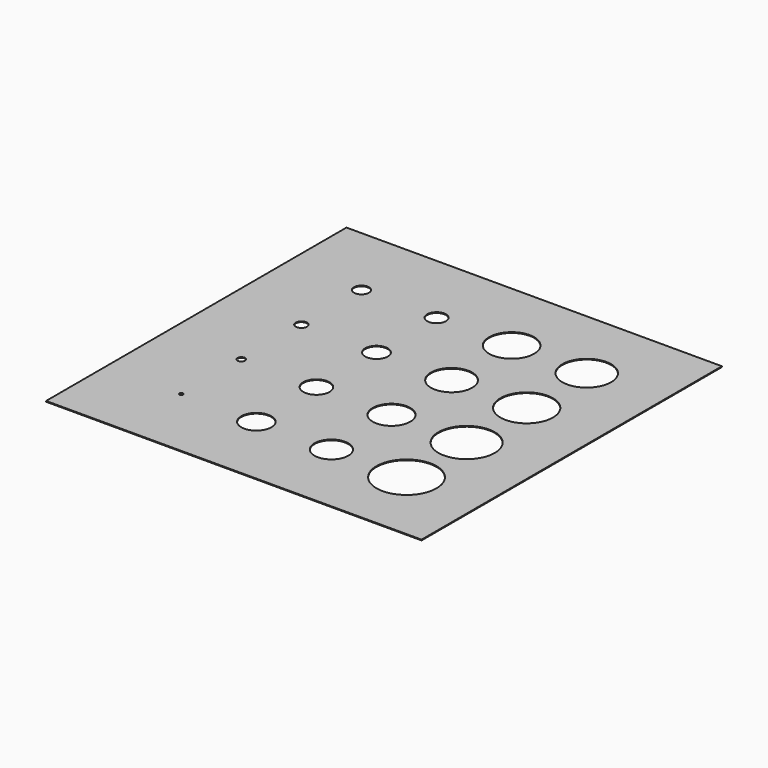
from build123d import *

# Parameters (mm, degrees)
F0_W     = 100
F0_H     = 100
F0_R     = 0.5
F0_R_2   = 4
F0_R_3   = 1
F0_R_4   = 3.5
F0_R_5   = 4.5
F0_R_6   = 8
F0_R_7   = 5
F0_R_8   = 7.5
F0_R_9   = 1.5
F0_R_10  = 3
F0_R_11  = 2
F0_R_12  = 2.5
F0_R_13  = 5.5
F0_R_14  = 7
F0_R_15  = 6
F0_R_16  = 6.5
F1_DEPTH = 0.2


with BuildPart() as f1:
    # F0 (on Top) → F1 (new body)
    with BuildSketch(Plane.XY):
        with Locations((50, 50)):
            Rectangle(F0_W, F0_H)
        with Locations((20, 20)):
            Circle(F0_R, mode=Mode.SUBTRACT)
        with Locations((40, 20)):
            Circle(F0_R_2, mode=Mode.SUBTRACT)
        with Locations((20, 40)):
            Circle(F0_R_3, mode=Mode.SUBTRACT)
        with Locations((40, 40)):
            Circle(F0_R_4, mode=Mode.SUBTRACT)
        with Locations((60, 20)):
            Circle(F0_R_5, mode=Mode.SUBTRACT)
        with Locations((80, 20)):
            Circle(F0_R_6, mode=Mode.SUBTRACT)
        with Locations((60, 40)):
            Circle(F0_R_7, mode=Mode.SUBTRACT)
        with Locations((80, 40)):
            Circle(F0_R_8, mode=Mode.SUBTRACT)
        with Locations((20, 60)):
            Circle(F0_R_9, mode=Mode.SUBTRACT)
        with Locations((40, 60)):
            Circle(F0_R_10, mode=Mode.SUBTRACT)
        with Locations((20, 80)):
            Circle(F0_R_11, mode=Mode.SUBTRACT)
        with Locations((40, 80)):
            Circle(F0_R_12, mode=Mode.SUBTRACT)
        with Locations((60, 60)):
            Circle(F0_R_13, mode=Mode.SUBTRACT)
        with Locations((80, 60)):
            Circle(F0_R_14, mode=Mode.SUBTRACT)
        with Locations((60, 80)):
            Circle(F0_R_15, mode=Mode.SUBTRACT)
        with Locations((80, 80)):
            Circle(F0_R_16, mode=Mode.SUBTRACT)
    extrude(amount=F1_DEPTH)


solid = f1.part
